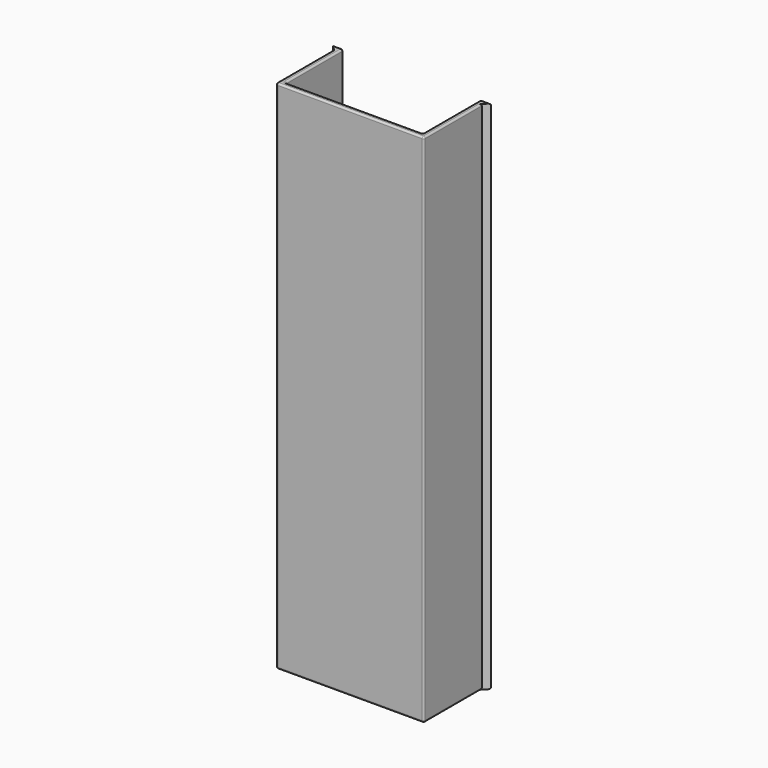
from build123d import *

# Parameters (mm, degrees)
F1_DEPTH = 150
F2_R     = 0.5


with BuildPart() as f1:
    # F0 (on Top) → F1 (new body)
    with BuildSketch(Plane.XY):
        Polygon((-41.5, 1.5), (-41.5, 22.562249), (-44.5, 22.562249), (-43, 21.062249), (-43, 0), (0, 0), (0, 21.062249), (1.5, 22.562249), (-1.5, 22.562249), (-1.5, 1.5), align=None)
    extrude(amount=F1_DEPTH)

    # F2
    f2_edges = [f1.edges().sort_by_distance(p)[0] for p in [
        (-1.5, 22.562249, 75),
        (-1.5, 12.031124, 150),
        (-1.5, 1.5, 75),
        (0, 10.531124, 150),
        (-21.5, 0, 150),
        (-41.5, 12.031124, 150),
        (-41.5, 22.562249, 75),
        (-21.5, 1.5, 0),
        (-21.5, 1.5, 150),
        (-41.5, 1.5, 75),
        (0, 0, 75),
        (-21.5, 0, 0),
        (0, 10.531124, 0),
        (-43, 0, 75),
        (-43, 10.531124, 150),
        (-43, 10.531124, 0),
        (-41.5, 12.031124, 0),
        (-1.5, 12.031124, 0),
        (-43, 22.562249, 150),
        (0, 22.562249, 150),
        (0, 22.562249, 0),
        (-43, 22.562249, 0),
    ]]
    fillet(f2_edges, radius=F2_R)


solid = f1.part
